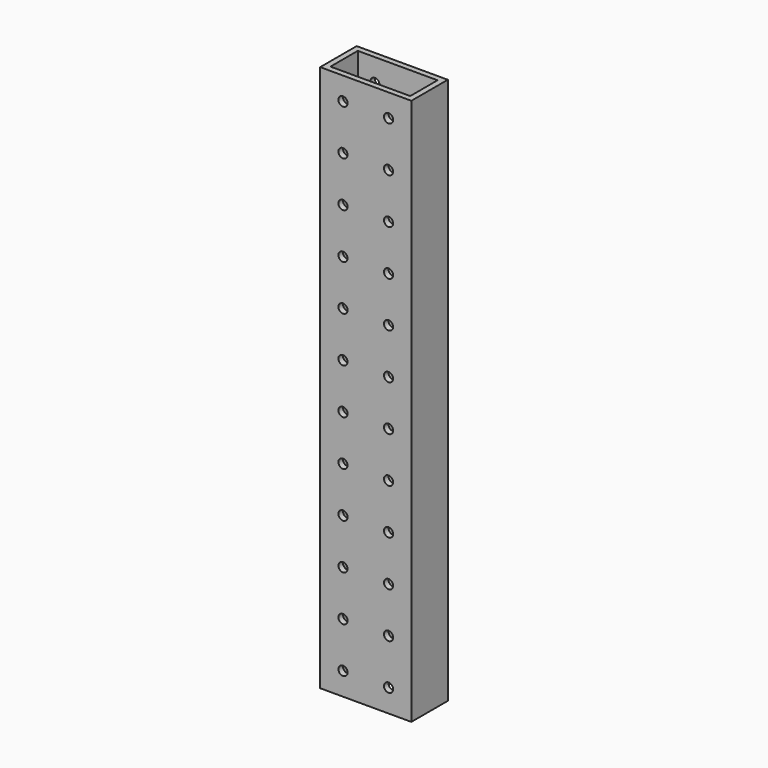
from build123d import *

# Parameters (mm, degrees)
F0_W     = 50.8
F0_H     = 25.4
F0_W_2   = 44.45
F0_H_2   = 19.05
F1_DEPTH = 304.8
F2_R     = 2.5527
F3_DEPTH = 25.4


with BuildPart() as f1:
    # F0 (on Top) → F1 (new body)
    with BuildSketch(Plane.XY):
        Rectangle(F0_W, F0_H)
        Rectangle(F0_W_2, F0_H_2, mode=Mode.SUBTRACT)
    extrude(amount=F1_DEPTH)

    # F2 (on face) → F3 (cut)
    with BuildSketch(Plane.XZ.offset(12.7)):
        with Locations((-12.7, 292.1)):
            Circle(F2_R)
        with Locations((-12.7, 266.7)):
            Circle(F2_R)
        with Locations((-12.7, 241.3)):
            Circle(F2_R)
        with Locations((-12.7, 215.9)):
            Circle(F2_R)
        with Locations((-12.7, 190.5)):
            Circle(F2_R)
        with Locations((-12.7, 165.1)):
            Circle(F2_R)
        with Locations((-12.7, 139.7)):
            Circle(F2_R)
        with Locations((-12.7, 114.3)):
            Circle(F2_R)
        with Locations((-12.7, 88.9)):
            Circle(F2_R)
        with Locations((-12.7, 63.5)):
            Circle(F2_R)
        with Locations((-12.7, 38.1)):
            Circle(F2_R)
        with Locations((-12.7, 12.7)):
            Circle(F2_R)
        with Locations((12.7, 292.1)):
            Circle(F2_R)
        with Locations((12.7, 266.7)):
            Circle(F2_R)
        with Locations((12.7, 241.3)):
            Circle(F2_R)
        with Locations((12.7, 215.9)):
            Circle(F2_R)
        with Locations((12.7, 190.5)):
            Circle(F2_R)
        with Locations((12.7, 165.1)):
            Circle(F2_R)
        with Locations((12.7, 139.7)):
            Circle(F2_R)
        with Locations((12.7, 114.3)):
            Circle(F2_R)
        with Locations((12.7, 88.9)):
            Circle(F2_R)
        with Locations((12.7, 63.5)):
            Circle(F2_R)
        with Locations((12.7, 38.1)):
            Circle(F2_R)
        with Locations((12.7, 12.7)):
            Circle(F2_R)
    extrude(amount=-F3_DEPTH, mode=Mode.SUBTRACT)


solid = f1.part
